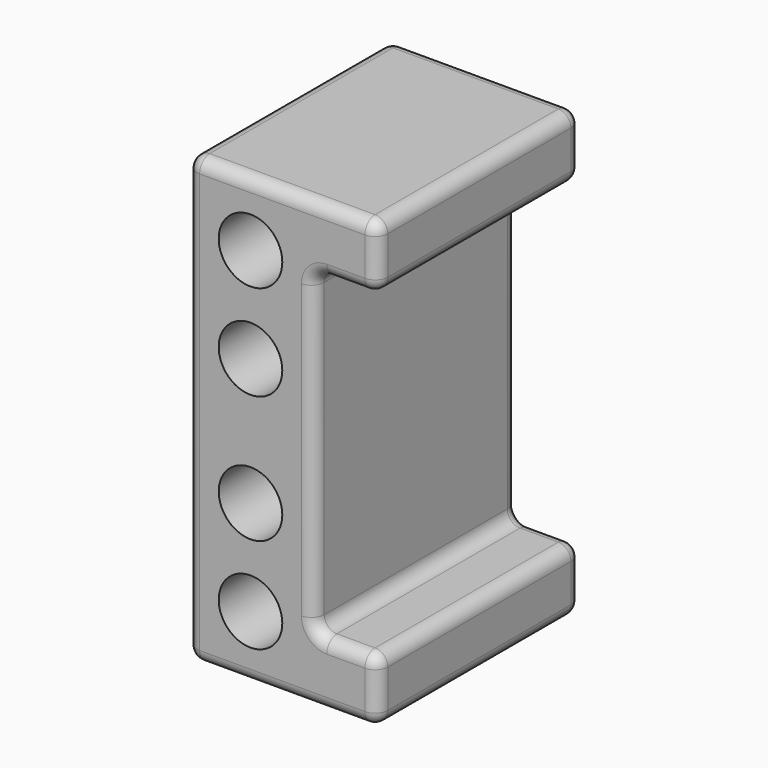
from build123d import *

# Parameters (mm, degrees)
F0_R     = 12.7
F1_DEPTH = 101.6
F2_R     = 5.08


with BuildPart() as f1:
    # F0 (on Front) → F1 (new body)
    with BuildSketch(Plane.XZ):
        Polygon((29.100048, 119.942114), (-47.099952, 119.942114), (-47.099952, -57.857886), (29.100048, -57.857886), (29.100048, -32.457886), (3.700048, -32.457886), (3.700048, 94.542114), (29.100048, 94.542114), align=None)
        with Locations((-21.699952, -32.457886)):
            Circle(F0_R, mode=Mode.SUBTRACT)
        with Locations((-21.699952, 5.642114)):
            Circle(F0_R, mode=Mode.SUBTRACT)
        with Locations((-21.699952, 56.442114)):
            Circle(F0_R, mode=Mode.SUBTRACT)
        with Locations((-21.699952, 94.542114)):
            Circle(F0_R, mode=Mode.SUBTRACT)
    extrude(amount=F1_DEPTH)

    # F2
    f2_edges = [f1.edges().sort_by_distance(p)[0] for p in [
        (-8.999952, -101.6, 119.942114),
        (-47.099952, -101.6, 31.042114),
        (29.100048, -101.6, 107.242114),
        (16.400048, -101.6, 94.542114),
        (3.700048, -101.6, 31.042114),
        (16.400048, -101.6, -32.457886),
        (29.100048, -101.6, -45.157886),
        (-8.999952, -101.6, -57.857886),
        (-47.099952, -50.8, 119.942114),
        (-8.999952, 0, 119.942114),
        (29.100048, -50.8, 119.942114),
        (-47.099952, 0, 31.042114),
        (-47.099952, -50.8, -57.857886),
        (29.100048, -50.8, -32.457886),
        (3.700048, -50.8, -32.457886),
        (29.100048, -50.8, 94.542114),
        (29.100048, 0, 107.242114),
        (29.100048, -50.8, -57.857886),
        (29.100048, 0, -45.157886),
        (3.700048, -50.8, 94.542114),
        (16.400048, 0, 94.542114),
        (3.700048, 0, 31.042114),
        (16.400048, 0, -32.457886),
        (-8.999952, 0, -57.857886),
    ]]
    fillet(f2_edges, radius=F2_R)


solid = f1.part
